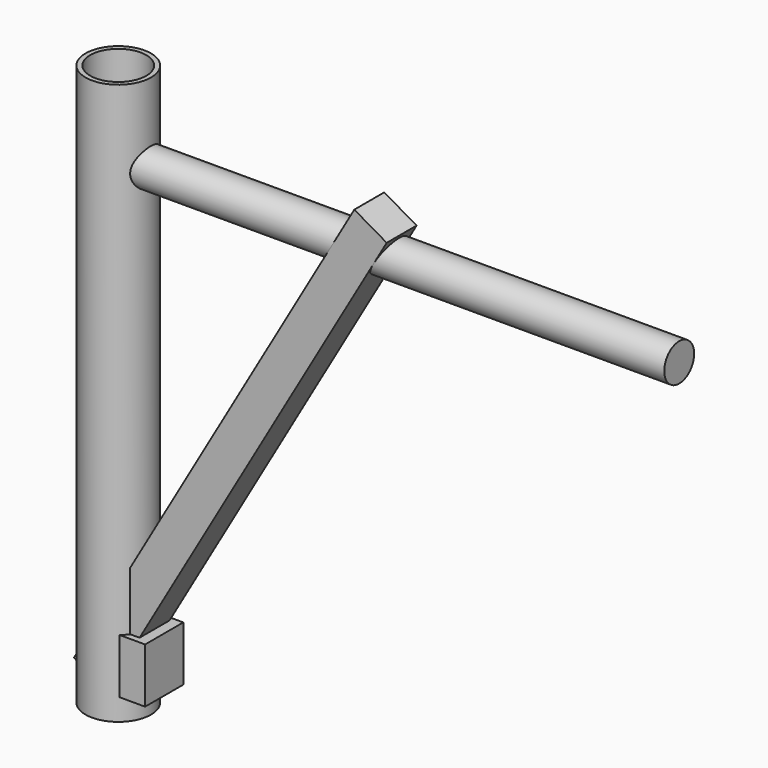
from build123d import *

# Parameters (mm, degrees)
F0_R      = 17.5
F1_DEPTH  = 300
F2_T      = -2.5
F3_R      = 10
F4_DEPTH  = 300
F5_W      = 25.526379
F5_H      = 29.308066
F7_DEPTH  = 25
F10_W     = 20
F10_H     = 20
F11_DEPTH = 300


with BuildPart() as f1:
    # F0 (on Top) → F1 (new body)
    with BuildSketch(Plane.XY):
        Circle(F0_R)
    extrude(amount=F1_DEPTH)

    # F2
    f2_openings = [f1.faces().sort_by_distance(p)[0] for p in [
        (0, 0, 300),
    ]]
    offset(amount=F2_T, openings=f2_openings)

    # F5 (on Right) → F7 (join)
    with BuildSketch(Plane.YZ):
        with Locations((-0.536079, 26.255716)):
            Rectangle(F5_W, F5_H)
    extrude(amount=F7_DEPTH)


with BuildPart() as f4:
    # F3 (on Right) → F4 (new body)
    with BuildSketch(Plane.YZ):
        with Locations((0, 257.74622)):
            Circle(F3_R)
    extrude(amount=F4_DEPTH)


with BuildPart() as f11:
    # F10 (on face) → F11 (new body)
    with BuildSketch(Plane(origin=(4.733381, 0, 8.198457), x_dir=(0.866025, 0, -0.5), z_dir=(-0.5, 0, -0.866025))):
        with Locations((-13.654941, 0)):
            Rectangle(F10_W, F10_H)
    extrude(amount=-F11_DEPTH)


solid = Compound([f1.part, f4.part, f11.part])
